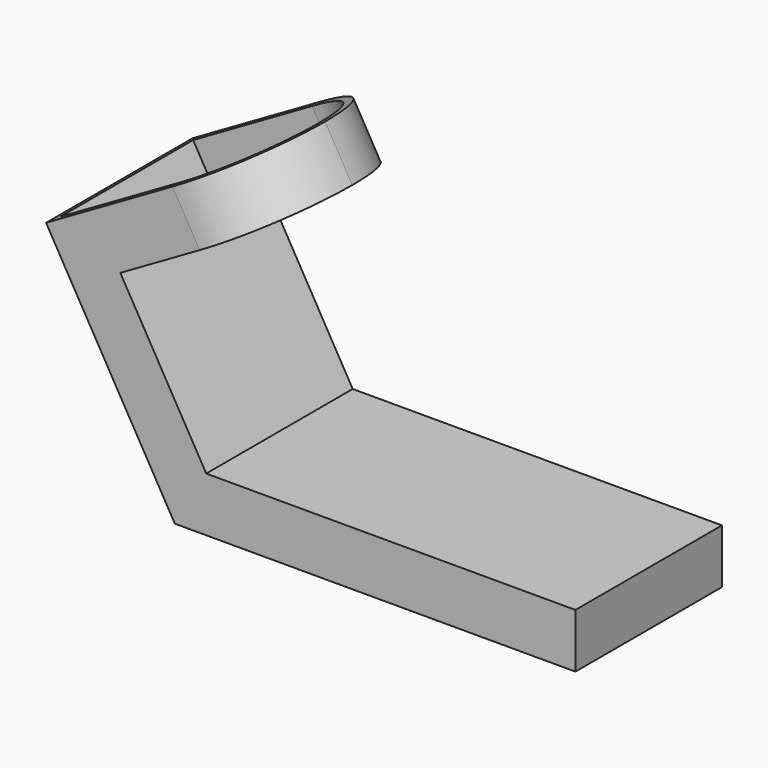
from build123d import *

# Parameters (mm, degrees)
F1_DEPTH = 64
F3_DEPTH = 25
F4_T     = -3
F5_R     = 9.5
F6_DEPTH = 3


with BuildPart() as f1:
    # F0 (on Front) → F1 (new body)
    with BuildSketch(Plane.XZ):
        Polygon((-45, 77.9422863406), (0, 0), (140, 0), (140, 19), (10.9696551146, 19), (-19.0455173281, 70.9878036687), (36.3801085141, 102.9878036687), (26.8801085141, 119.4422863406), align=None)
    extrude(amount=-F1_DEPTH)

    # F2 (on face) → F3 (cut)
    with BuildSketch(Plane(origin=(-45, 0, 77.9422863406), x_dir=(0.8660254038, 0, 0.5), z_dir=(-0.5, 0, 0.8660254038))):
        with BuildLine():
            ThreePointArc((51, 64), (73.627416998, 54.627416998), (83, 32))
            Line((83, 32), (83, 64))
            Line((83, 64), (51, 64))
        make_face()
        with BuildLine():
            Line((83, 0), (83, 32))
            ThreePointArc((83, 32), (73.627416998, 9.372583002), (51, 0))
            Line((51, 0), (83, 0))
        make_face()
    extrude(amount=-F3_DEPTH, mode=Mode.SUBTRACT)

    # F4
    f4_openings = [f1.faces().sort_by_distance(p)[0] for p in [
        (-11.74342, 32, 97.142982),
    ]]
    offset(amount=F4_T, openings=f4_openings, kind=Kind.INTERSECTION)

    # F5 (on face) → F6 (cut, through all)
    with BuildSketch(Plane(origin=(-37, 0, 64.08587988), x_dir=(0.8660254038, 0, 0.5), z_dir=(-0.5, 0, 0.8660254038))):
        with Locations((51, 32)):
            Circle(F5_R)
    extrude(amount=-F6_DEPTH, mode=Mode.SUBTRACT)


solid = f1.part
